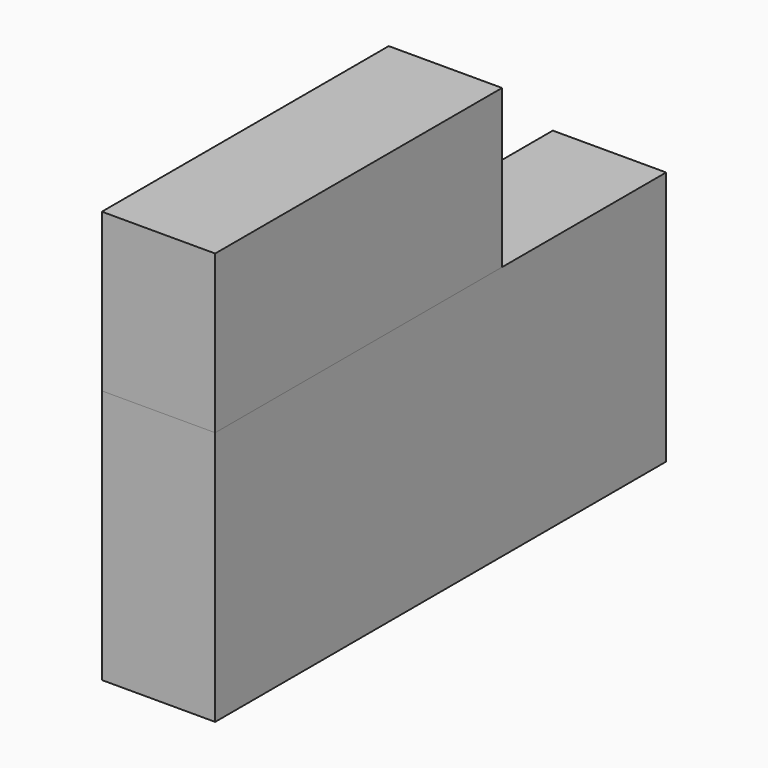
from build123d import *

# Parameters (mm, degrees)
F0_W     = 15.8
F0_H     = 78.6
F1_DEPTH = 35.5
F2_W     = 15.8
F2_H     = 50
F3_DEPTH = 22


with BuildPart() as f1:
    # F0 (on Top) → F1 (new body)
    with BuildSketch(Plane.XY):
        Rectangle(F0_W, F0_H)
    extrude(amount=F1_DEPTH)


with BuildPart() as f3:
    # F2 (on face) → F3 (new body)
    with BuildSketch(Plane.XY.offset(35.5)):
        with Locations((0, -14.3)):
            Rectangle(F2_W, F2_H)
    extrude(amount=F3_DEPTH)


solid = Compound([f1.part, f3.part])
